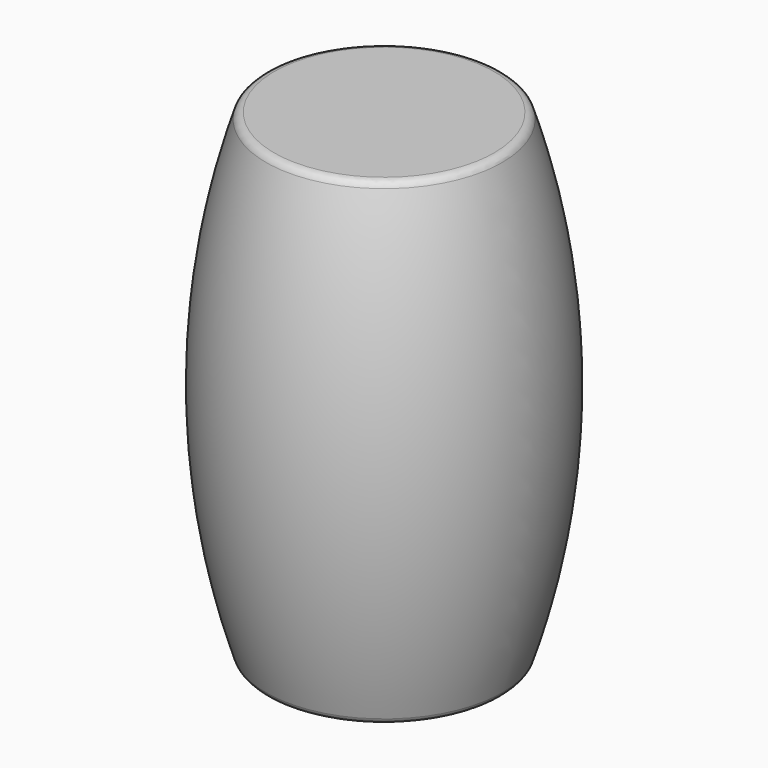
from build123d import *

# Parameters (mm, degrees)
FILLET_R = 0.3


with BuildPart() as part:
    # Sketch → Revolution (revolve)
    with BuildSketch(Plane.XZ):
        with BuildLine():
            ThreePointArc((4.127134, -8.5), (5.5, 0), (4.127134, 8.5))
            Line((4.127134, 8.5), (0, 8.5))
            Line((0, -8.5), (0, 8.5))
            Line((4.127134, -8.5), (0, -8.5))
        make_face()
    revolve(axis=Axis((0, 0, 0), (0, 0, 1)))

    # Fillet
    fillet_edges = [part.edges().sort_by_distance(p)[0] for p in [
        (-4.127134, 0, 8.5),
        (-4.127134, 0, -8.5),
    ]]
    fillet(fillet_edges, radius=FILLET_R)


solid = part.part
